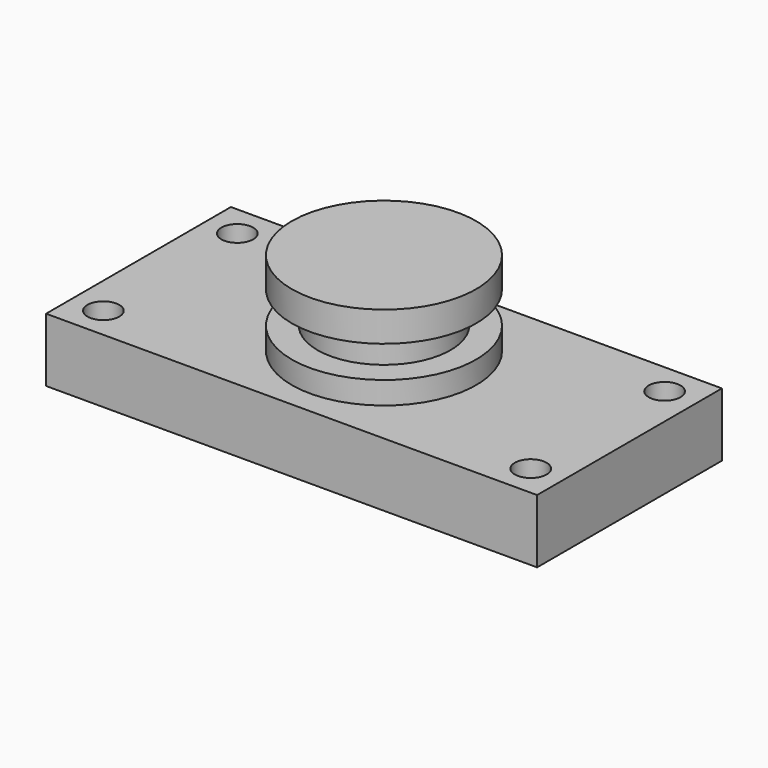
from build123d import *

# Parameters (mm, degrees)
F0_W     = 195.8933323622
F0_H     = 92.163823545
F1_DEPTH = 25.4
F2_R     = 6.35
F3_DEPTH = 25.4
F4_W     = 36.7853008211
F4_H     = 33.6875878274
F6_W     = 25.4169069231
F6_H     = 12.7084553242


with BuildPart() as f1:
    # F0 (on Top) → F1 (new body)
    with BuildSketch(Plane.XY):
        Rectangle(F0_W, F0_H)
    extrude(amount=F1_DEPTH)

    # F2 (on Top) → F3 (cut)
    with BuildSketch(Plane.XY):
        with Locations((-85.2466661811, 33.3819117725)):
            Circle(F2_R)
        with Locations((-85.2466661811, -33.3819117725)):
            Circle(F2_R)
        with Locations((85.2466661811, 33.3819117725)):
            Circle(F2_R)
        with Locations((85.2466661811, -33.3819117725)):
            Circle(F2_R)
    extrude(amount=F3_DEPTH, mode=Mode.SUBTRACT)

    # F4 (on Front) → F5 (revolve)
    with BuildSketch(Plane.XZ):
        with Locations((-18.3926504105, 42.2437939137)):
            Rectangle(F4_W, F4_H)
    revolve(axis=Axis((0, 0, 42.2437939137), (0, 0, -1)))

    # F6 (on Front) → F7 (revolve, cut)
    with BuildSketch(Plane.XZ):
        with Locations((-39.2806772143, 40.7248176634)):
            Rectangle(F6_W, F6_H)
    revolve(axis=Axis((0, 0, 59.0875878274), (0, 0, -1)), mode=Mode.SUBTRACT)


solid = f1.part
